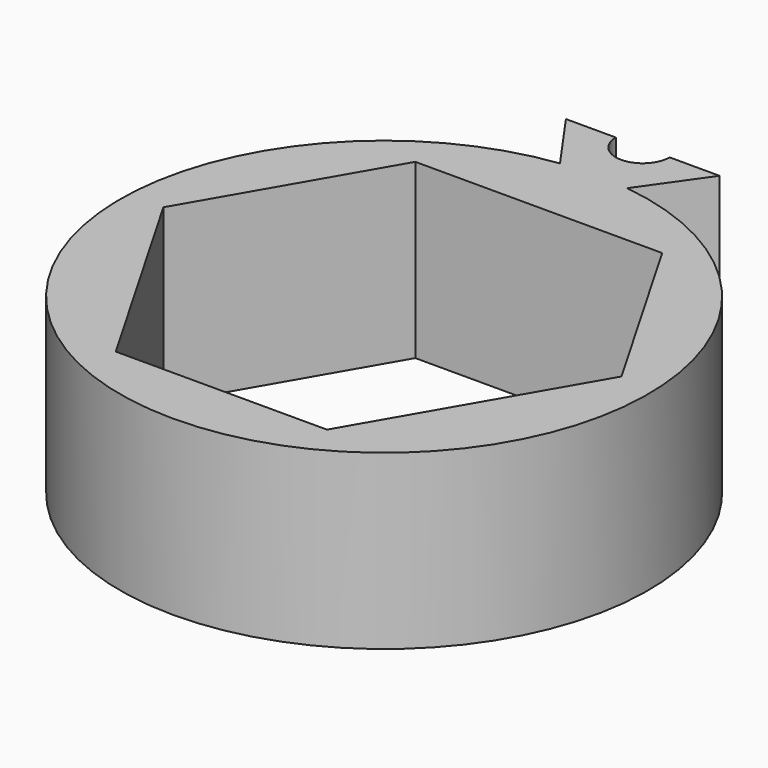
from build123d import *

# Parameters (mm, degrees)
PAD_DEPTH = 9


with BuildPart() as part:
    # Sketch → Pad (new body)
    with BuildSketch(Plane.XY):
        with BuildLine():
            Line((-1.75, 13.638182), (-4, 16.838182))
            Line((-1.4, 16.838182), (-4, 16.838182))
            ThreePointArc((-1.4, 16.838182), (0, 15.438182), (1.4, 16.838182))
            Line((1.4, 16.838182), (4, 16.838182))
            Line((4, 16.838182), (1.75, 13.638182))
            ThreePointArc((-1.75, 13.638182), (0, -13.75), (1.75, 13.638182))
        make_face()
        Polygon((-6.43, 10.068182), (6.43, 10.068182), (11.93, 0.541902), (5.5, -10.595184), (-5.5, -10.595184), (-11.93, 0.541902), align=None, mode=Mode.SUBTRACT)
    extrude(amount=PAD_DEPTH)


solid = part.part
